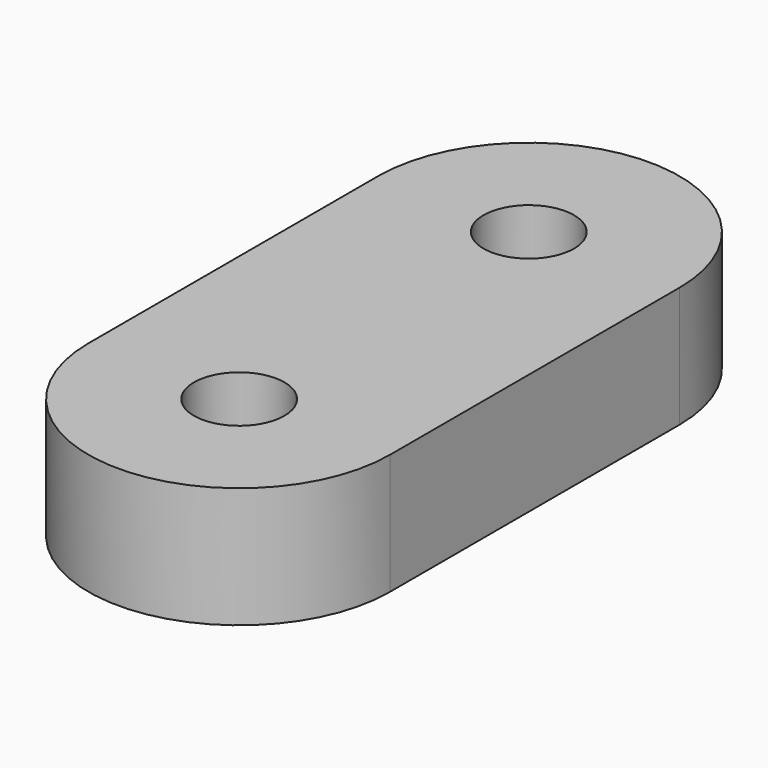
from build123d import *

# Parameters (mm, degrees)
SKETCH_R  = 1.5
PAD_DEPTH = 4


with BuildPart() as part:
    # Sketch → Pad (new body)
    with BuildSketch(Plane.XY):
        with BuildLine():
            ThreePointArc((5, 12), (0, 17), (-5, 12))
            Line((-5, 12), (-5, 0))
            ThreePointArc((-5, 0), (0, -5), (5, 0))
            Line((5, 12), (5, 0))
        make_face()
        with Locations((0, 12)):
            Circle(SKETCH_R, mode=Mode.SUBTRACT)
        Circle(SKETCH_R, mode=Mode.SUBTRACT)
    extrude(amount=PAD_DEPTH)


solid = part.part
